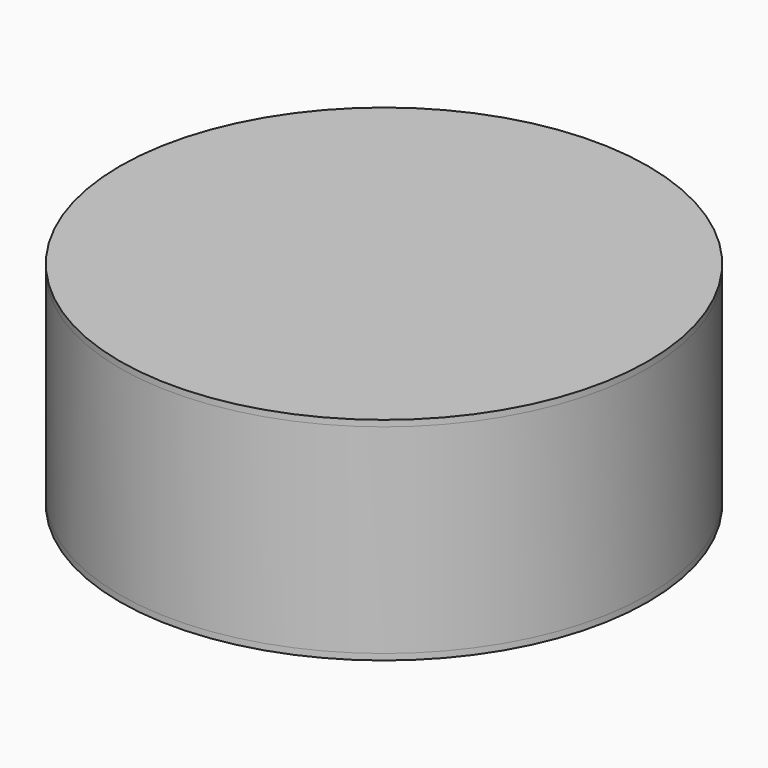
from build123d import *

# Parameters (mm, degrees)
F0_R      = 32.619475
F1_DEPTH  = 25.4
F1_FACE_R = 32.619475
F2_DEPTH  = 0.762


with BuildPart() as f1:
    # F0 (on Top) → F1 (new body)
    with BuildSketch(Plane.XY):
        with Locations((0, -1.860698)):
            Circle(F0_R)
    extrude(amount=F1_DEPTH)

    # F0 (on Top) + F1_face (on face) → F2 (join)
    with BuildSketch(Plane.XY):
        with Locations((0, -1.860698)):
            Circle(F0_R)
    with BuildSketch(Plane(origin=(0, -1.860698, 25.4), x_dir=(1, 0, 0), z_dir=(0, 0, 1))):
        Circle(F1_FACE_R)
    extrude(amount=-F2_DEPTH)


solid = f1.part
